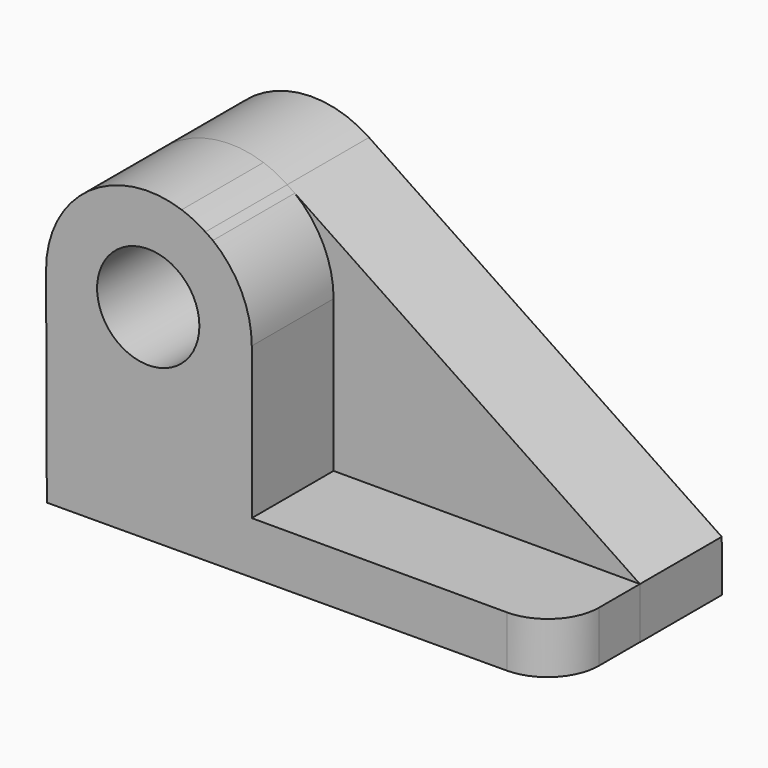
from build123d import *

# Parameters (mm, degrees)
F0_R     = 12.7
F1_DEPTH = 25.4
F2_R     = 12.7
F3_DEPTH = 25.4
F4_DEPTH = 25.4
F5_R     = 12.7


with BuildPart() as f1:
    # F0 (on Front) → F1 (new body)
    with BuildSketch(Plane.XZ):
        with BuildLine():
            Line((101.463508, -37.634854), (13.885502, 21.179284))
            ThreePointArc((13.885502, 21.179284), (-12.263588, 22.485844), (-25.675108, 0))
            Line((-25.675108, 0), (-25.489152, -50.79966))
            Line((-25.489152, -50.79966), (101.509997, -50.334769))
            Line((101.509997, -50.334769), (101.463508, -37.634854))
        make_face()
        with Locations((-0.306273, 0.13584)):
            Circle(F0_R, mode=Mode.SUBTRACT)
    extrude(amount=F1_DEPTH)

    # F2 (on face) → F3 (join)
    with BuildSketch(Plane.XZ.offset(25.4)):
        with BuildLine():
            Line((25.4, -37.634854), (25.4, 0))
            ThreePointArc((25.4, 0), (22.860903, 11.069738), (15.751252, 19.926316))
            Line((15.751252, 19.926316), (13.885502, 21.179284))
            ThreePointArc((13.885502, 21.179284), (11.033245, 22.836709), (7.990239, 24.110497))
            ThreePointArc((7.990239, 24.110497), (-15.064639, 20.743276), (-25.675108, 0))
            Line((-25.675108, 0), (-25.535641, -38.099745))
            Line((-25.535641, -38.099745), (-25.489152, -50.79966))
            Line((-25.489152, -50.79966), (101.463508, -50.334939))
            Line((101.463508, -50.334939), (101.463508, -37.634854))
            Line((101.463508, -37.634854), (25.4, -37.634854))
        make_face()
        with Locations((-0.306273, 0.13584)):
            Circle(F2_R, mode=Mode.SUBTRACT)
    extrude(amount=F3_DEPTH)

    # F2 (on face) → F4 (join)
    with BuildSketch(Plane.XZ.offset(25.4)):
        with BuildLine():
            Line((25.4, -37.634854), (25.4, 0))
            ThreePointArc((25.4, 0), (22.860903, 11.069738), (15.751252, 19.926316))
            Line((15.751252, 19.926316), (13.885502, 21.179284))
            ThreePointArc((13.885502, 21.179284), (11.033245, 22.836709), (7.990239, 24.110497))
            ThreePointArc((7.990239, 24.110497), (-15.064639, 20.743276), (-25.675108, 0))
            Line((-25.675108, 0), (-25.535641, -38.099745))
            Line((-25.535641, -38.099745), (-25.489152, -50.79966))
            Line((-25.489152, -50.79966), (101.463508, -50.334939))
            Line((101.463508, -50.334939), (101.463508, -37.634854))
            Line((101.463508, -37.634854), (25.4, -37.634854))
        make_face()
        with Locations((-0.306273, 0.13584)):
            Circle(F2_R, mode=Mode.SUBTRACT)
    extrude(amount=F4_DEPTH)

    # F5
    f5_edges = [f1.edges().sort_by_distance(p)[0] for p in [
        (101.463508, -50.8, -43.984897),
    ]]
    fillet(f5_edges, radius=F5_R)


solid = f1.part
